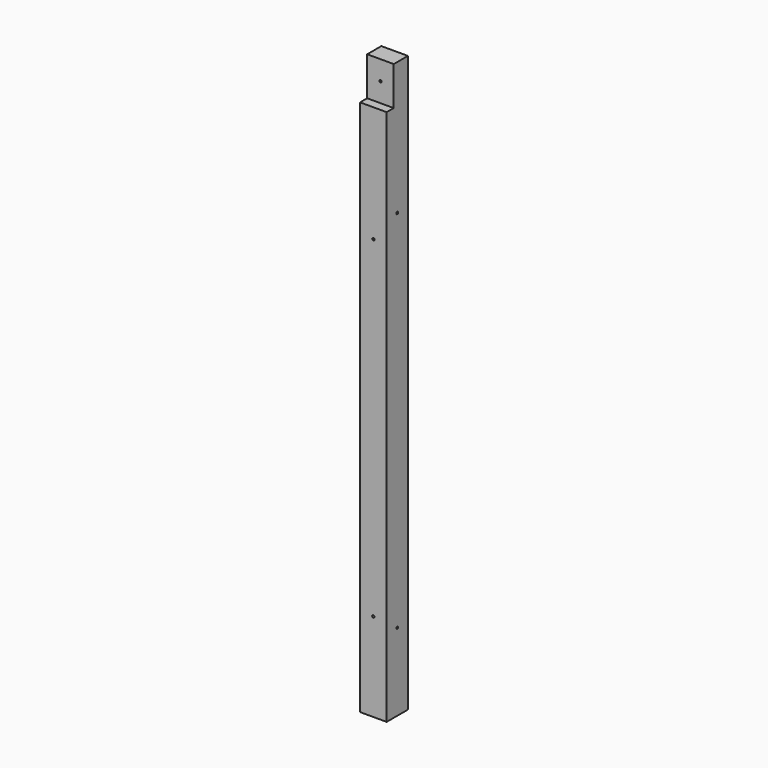
from build123d import *

# Parameters (mm, degrees)
F0_W     = 120
F0_H     = 120
F1_DEPTH = 1300
F2_W     = 40
F2_H     = 175
F3_DEPTH = 120
F4_R     = 5.25
F5_DEPTH = 120.001
F6_R     = 5.25
F7_DEPTH = 120.001


with BuildPart() as f1:
    # F0 (on Top) → F1 (new body, symmetric)
    with BuildSketch(Plane.XY):
        Rectangle(F0_W, F0_H)
    extrude(amount=F1_DEPTH, both=True)

    # F2 (on face) → F3 (cut, through all)
    with BuildSketch(Plane.YZ.offset(60)):
        with Locations((-40, 1212.5)):
            Rectangle(F2_W, F2_H)
    extrude(amount=-F3_DEPTH, mode=Mode.SUBTRACT)

    # F4 (on face) → F5 (cut, through all)
    with BuildSketch(Plane(origin=(0, 60, 0), x_dir=(-1, 0, 0), z_dir=(0, 1, 0))):
        with Locations((0, 1212.5)):
            Circle(F4_R)
        with Locations((0, -900)):
            Circle(F4_R)
        with Locations((0, 600)):
            Circle(F4_R)
    extrude(amount=-F5_DEPTH, mode=Mode.SUBTRACT)

    # F6 (on face) → F7 (cut, through all)
    with BuildSketch(Plane.YZ.offset(60)):
        with Locations((0, -950)):
            Circle(F6_R)
        with Locations((0, 700)):
            Circle(F6_R)
    extrude(amount=-F7_DEPTH, mode=Mode.SUBTRACT)


solid = f1.part
